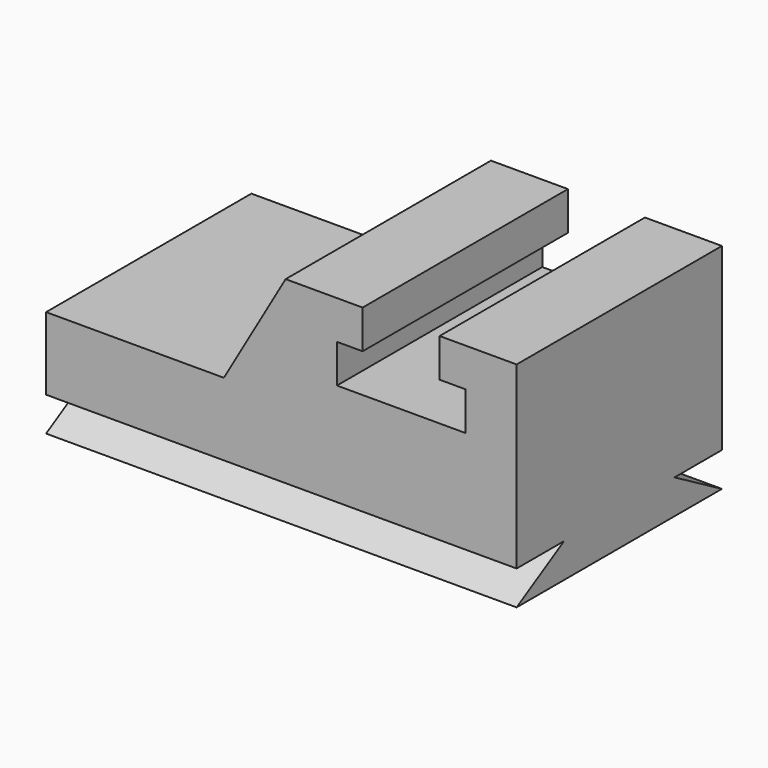
from build123d import *

# Parameters (mm, degrees)
F1_DEPTH = 1524
F3_DEPTH = 2794.001


with BuildPart() as f1:
    # F0 (on Front) → F1 (new body)
    with BuildSketch(Plane.XZ):
        Polygon((1055.782579, 0), (0, 0), (0, -635), (2794, -635), (2794, 635), (2336.8, 635), (2336.8, 406.4), (2489.2, 406.4), (2489.2, 177.8), (1727.2, 177.8), (1727.2, 406.4), (1879.6, 406.4), (1879.6, 635), (1422.4, 635), align=None)
    extrude(amount=F1_DEPTH)

    # F2 (on face) → F3 (cut, through all)
    with BuildSketch(Plane(origin=(0, 0, 0), x_dir=(0, -1, 0), z_dir=(-1, 0, 0))):
        Polygon((0, -431.8), (0, -635), (351.952724, -431.8), align=None)
        Polygon((1172.047276, -431.8), (1524, -635), (1524, -431.8), align=None)
    extrude(amount=-F3_DEPTH, mode=Mode.SUBTRACT)


solid = f1.part
